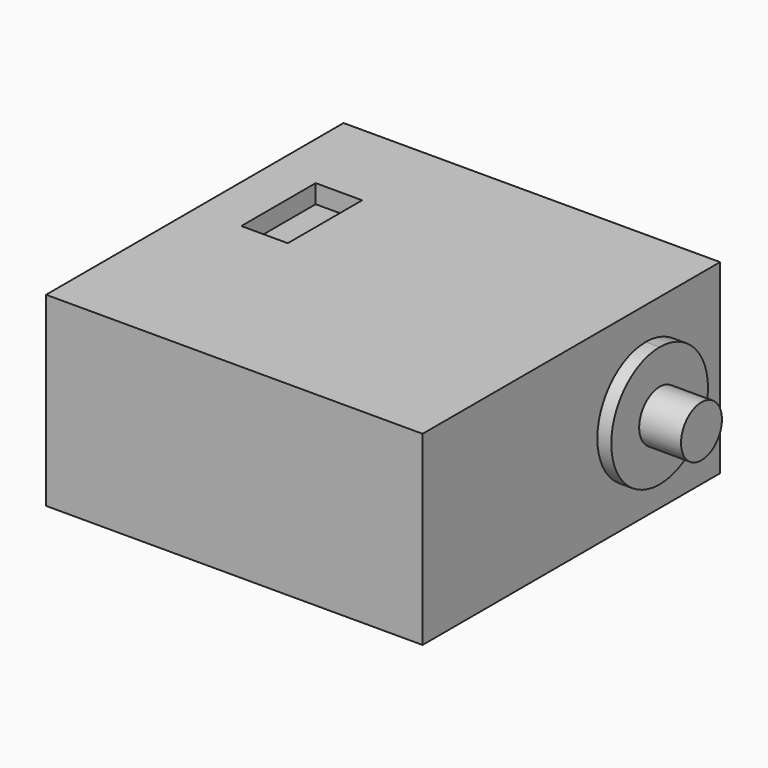
from build123d import *

# Parameters (mm, degrees)
F0_W      = 40.5
F0_H      = 40
F1_DEPTH  = 10
F3_DEPTH  = 1.5
F4_R      = 2.75
F5_DEPTH  = 4.5
F7_DEPTH  = 1.5
F8_R      = 2.75
F9_DEPTH  = 4.5
F10_W     = 5
F10_H     = 10
F11_DEPTH = 2
F12_W     = 5
F12_H     = 10
F13_DEPTH = 2


with BuildPart() as f1:
    # F0 (on Top) → F1 (new body, symmetric)
    with BuildSketch(Plane.XY):
        Rectangle(F0_W, F0_H)
    extrude(amount=F1_DEPTH, both=True)

    # F2 (on face) → F3 (join)
    with BuildSketch(Plane(origin=(-20.25, 0, 0), x_dir=(0, -1, 0), z_dir=(-1, 0, 0))):
        with BuildLine():
            Line((-10, -6.5), (-10, 6.5))
            ThreePointArc((-10, 6.5), (-16.5, 0), (-10, -6.5))
        make_face()
        with BuildLine():
            ThreePointArc((-3.5, 0), (-5.4038059223, 4.5961940777), (-10, 6.5))
            Line((-10, 6.5), (-10, -6.5))
            ThreePointArc((-10, -6.5), (-5.4038059223, -4.5961940777), (-3.5, 0))
        make_face()
    extrude(amount=F3_DEPTH)

    # F4 (on face) → F5 (join)
    with BuildSketch(Plane(origin=(-21.75, 0, 0), x_dir=(0, -1, 0), z_dir=(-1, 0, 0))):
        with Locations((-10, 0)):
            Circle(F4_R)
    extrude(amount=F5_DEPTH)

    # F6 (on face) → F7 (join)
    with BuildSketch(Plane.YZ.offset(20.25)):
        with BuildLine():
            ThreePointArc((16.5, 0), (14.5961940777, 4.5961940777), (10, 6.5))
            Line((10, 6.5), (10, -6.5))
            ThreePointArc((10, -6.5), (14.5961940777, -4.5961940777), (16.5, 0))
        make_face()
        with BuildLine():
            Line((10, -6.5), (10, 6.5))
            ThreePointArc((10, 6.5), (3.5, 0), (10, -6.5))
        make_face()
    extrude(amount=F7_DEPTH)

    # F8 (on face) → F9 (join)
    with BuildSketch(Plane.YZ.offset(21.75)):
        with Locations((10, 0)):
            Circle(F8_R)
    extrude(amount=F9_DEPTH)

    # F10 (on face) → F11 (cut)
    with BuildSketch(Plane(origin=(0, 0, -10), x_dir=(1, 0, 0), z_dir=(0, 0, -1))):
        with Locations((-12.75, -5)):
            Rectangle(F10_W, F10_H)
    extrude(amount=-F11_DEPTH, mode=Mode.SUBTRACT)

    # F12 (on face) → F13 (cut)
    with BuildSketch(Plane.XY.offset(10)):
        with Locations((-12.75, 5)):
            Rectangle(F12_W, F12_H)
    extrude(amount=-F13_DEPTH, mode=Mode.SUBTRACT)


solid = f1.part
